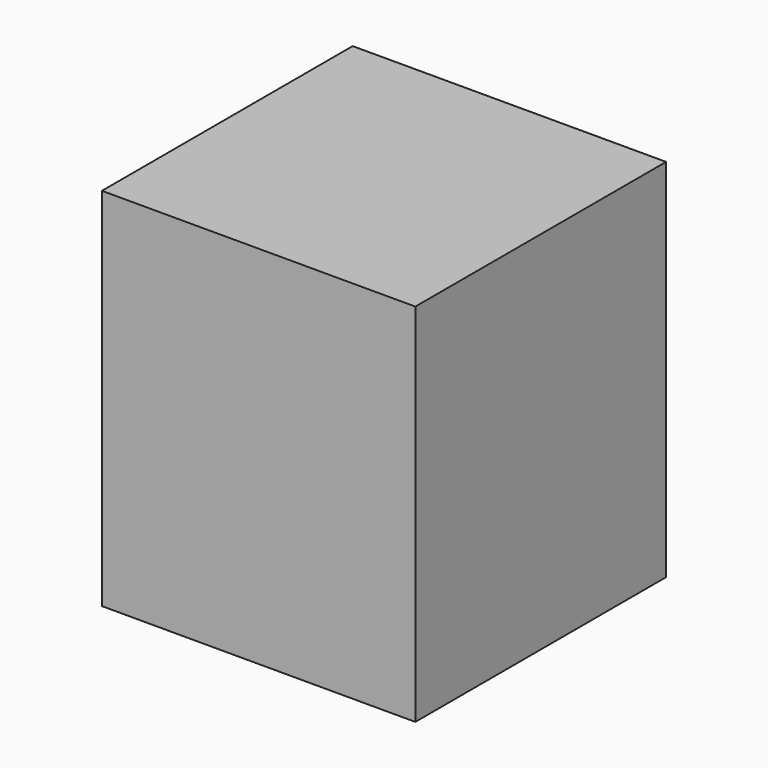
from build123d import *

# Parameters (mm, degrees)
BOX_W     = 300
BOX_H     = 300
BOX_DEPTH = 350


with BuildPart() as part:
    # Box → Box (new body)
    with BuildSketch(Plane.XY):
        with Locations((150, 150)):
            Rectangle(BOX_W, BOX_H)
    extrude(amount=BOX_DEPTH)


solid = part.part
